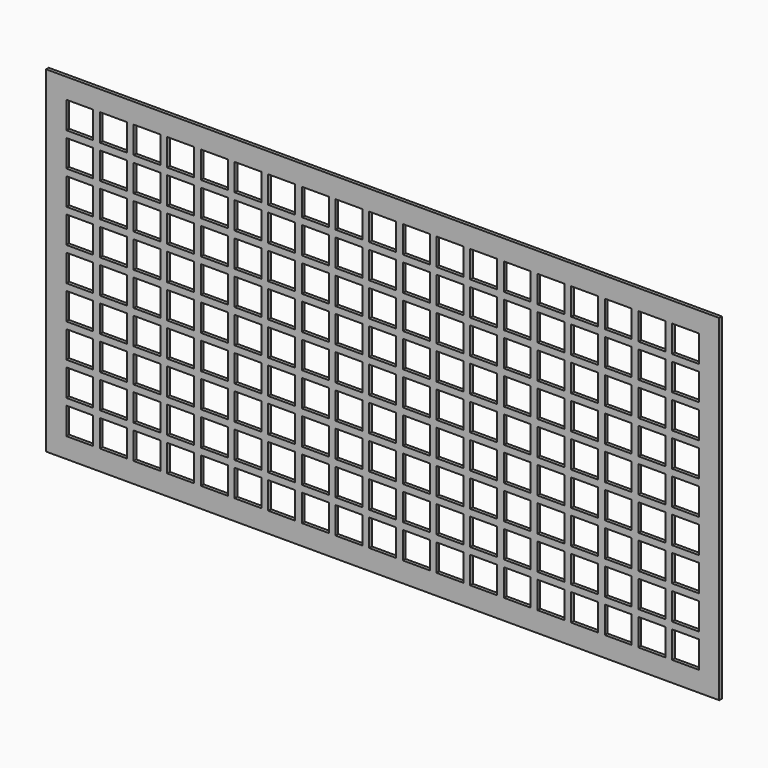
from build123d import *

# Parameters (mm, degrees)
F0_W     = 200
F0_H     = 100
F1_DEPTH = 1
F2_W     = 8
F2_H     = 8
F3_DEPTH = 25


with BuildPart() as f1:
    # F0 (on Front) → F1 (new body)
    with BuildSketch(Plane.XZ):
        with Locations((100, 50)):
            Rectangle(F0_W, F0_H)
    extrude(amount=F1_DEPTH)

    # F2 (on face) → F3 (cut)
    with BuildSketch(Plane.XZ.offset(1)):
        with Locations((10, 90)):
            Rectangle(F2_W, F2_H)
        with Locations((60, 70)):
            Rectangle(F2_W, F2_H)
        with Locations((40, 50)):
            Rectangle(F2_W, F2_H)
        with Locations((130, 60)):
            Rectangle(F2_W, F2_H)
        with Locations((110, 40)):
            Rectangle(F2_W, F2_H)
        with Locations((90, 20)):
            Rectangle(F2_W, F2_H)
        with Locations((80, 90)):
            Rectangle(F2_W, F2_H)
        with Locations((180, 30)):
            Rectangle(F2_W, F2_H)
        with Locations((160, 10)):
            Rectangle(F2_W, F2_H)
        with Locations((150, 80)):
            Rectangle(F2_W, F2_H)
        with Locations((40, 70)):
            Rectangle(F2_W, F2_H)
        with Locations((110, 60)):
            Rectangle(F2_W, F2_H)
        with Locations((90, 40)):
            Rectangle(F2_W, F2_H)
        with Locations((70, 20)):
            Rectangle(F2_W, F2_H)
        with Locations((60, 90)):
            Rectangle(F2_W, F2_H)
        with Locations((180, 50)):
            Rectangle(F2_W, F2_H)
        with Locations((160, 30)):
            Rectangle(F2_W, F2_H)
        with Locations((140, 10)):
            Rectangle(F2_W, F2_H)
        with Locations((130, 80)):
            Rectangle(F2_W, F2_H)
        with Locations((40, 60)):
            Rectangle(F2_W, F2_H)
        with Locations((110, 50)):
            Rectangle(F2_W, F2_H)
        with Locations((90, 30)):
            Rectangle(F2_W, F2_H)
        with Locations((70, 10)):
            Rectangle(F2_W, F2_H)
        with Locations((60, 80)):
            Rectangle(F2_W, F2_H)
        with Locations((180, 40)):
            Rectangle(F2_W, F2_H)
        with Locations((160, 20)):
            Rectangle(F2_W, F2_H)
        with Locations((150, 90)):
            Rectangle(F2_W, F2_H)
        with Locations((130, 70)):
            Rectangle(F2_W, F2_H)
        with Locations((40, 40)):
            Rectangle(F2_W, F2_H)
        with Locations((20, 20)):
            Rectangle(F2_W, F2_H)
        with Locations((110, 30)):
            Rectangle(F2_W, F2_H)
        with Locations((90, 10)):
            Rectangle(F2_W, F2_H)
        with Locations((80, 80)):
            Rectangle(F2_W, F2_H)
        with Locations((60, 60)):
            Rectangle(F2_W, F2_H)
        with Locations((180, 20)):
            Rectangle(F2_W, F2_H)
        with Locations((170, 90)):
            Rectangle(F2_W, F2_H)
        with Locations((150, 70)):
            Rectangle(F2_W, F2_H)
        with Locations((130, 50)):
            Rectangle(F2_W, F2_H)
        with Locations((40, 30)):
            Rectangle(F2_W, F2_H)
        with Locations((20, 10)):
            Rectangle(F2_W, F2_H)
        with Locations((110, 20)):
            Rectangle(F2_W, F2_H)
        with Locations((100, 90)):
            Rectangle(F2_W, F2_H)
        with Locations((80, 70)):
            Rectangle(F2_W, F2_H)
        with Locations((60, 50)):
            Rectangle(F2_W, F2_H)
        with Locations((180, 10)):
            Rectangle(F2_W, F2_H)
        with Locations((170, 80)):
            Rectangle(F2_W, F2_H)
        with Locations((150, 60)):
            Rectangle(F2_W, F2_H)
        with Locations((130, 40)):
            Rectangle(F2_W, F2_H)
        with Locations((40, 20)):
            Rectangle(F2_W, F2_H)
        with Locations((30, 90)):
            Rectangle(F2_W, F2_H)
        with Locations((110, 10)):
            Rectangle(F2_W, F2_H)
        with Locations((100, 80)):
            Rectangle(F2_W, F2_H)
        with Locations((80, 60)):
            Rectangle(F2_W, F2_H)
        with Locations((60, 40)):
            Rectangle(F2_W, F2_H)
        with Locations((190, 90)):
            Rectangle(F2_W, F2_H)
        with Locations((170, 70)):
            Rectangle(F2_W, F2_H)
        with Locations((150, 50)):
            Rectangle(F2_W, F2_H)
        with Locations((130, 30)):
            Rectangle(F2_W, F2_H)
        with Locations((40, 10)):
            Rectangle(F2_W, F2_H)
        with Locations((30, 80)):
            Rectangle(F2_W, F2_H)
        with Locations((120, 90)):
            Rectangle(F2_W, F2_H)
        with Locations((100, 70)):
            Rectangle(F2_W, F2_H)
        with Locations((80, 50)):
            Rectangle(F2_W, F2_H)
        with Locations((60, 30)):
            Rectangle(F2_W, F2_H)
        with Locations((190, 80)):
            Rectangle(F2_W, F2_H)
        with Locations((170, 60)):
            Rectangle(F2_W, F2_H)
        with Locations((150, 40)):
            Rectangle(F2_W, F2_H)
        with Locations((130, 20)):
            Rectangle(F2_W, F2_H)
        with Locations((50, 90)):
            Rectangle(F2_W, F2_H)
        with Locations((30, 70)):
            Rectangle(F2_W, F2_H)
        with Locations((120, 80)):
            Rectangle(F2_W, F2_H)
        with Locations((100, 60)):
            Rectangle(F2_W, F2_H)
        with Locations((80, 40)):
            Rectangle(F2_W, F2_H)
        with Locations((60, 20)):
            Rectangle(F2_W, F2_H)
        with Locations((190, 70)):
            Rectangle(F2_W, F2_H)
        with Locations((170, 50)):
            Rectangle(F2_W, F2_H)
        with Locations((150, 30)):
            Rectangle(F2_W, F2_H)
        with Locations((130, 10)):
            Rectangle(F2_W, F2_H)
        with Locations((50, 80)):
            Rectangle(F2_W, F2_H)
        with Locations((30, 60)):
            Rectangle(F2_W, F2_H)
        with Locations((120, 70)):
            Rectangle(F2_W, F2_H)
        with Locations((100, 50)):
            Rectangle(F2_W, F2_H)
        with Locations((80, 30)):
            Rectangle(F2_W, F2_H)
        with Locations((60, 10)):
            Rectangle(F2_W, F2_H)
        with Locations((190, 60)):
            Rectangle(F2_W, F2_H)
        with Locations((170, 40)):
            Rectangle(F2_W, F2_H)
        with Locations((150, 20)):
            Rectangle(F2_W, F2_H)
        with Locations((140, 90)):
            Rectangle(F2_W, F2_H)
        with Locations((80, 20)):
            Rectangle(F2_W, F2_H)
        with Locations((70, 90)):
            Rectangle(F2_W, F2_H)
        with Locations((50, 70)):
            Rectangle(F2_W, F2_H)
        with Locations((30, 50)):
            Rectangle(F2_W, F2_H)
        with Locations((150, 10)):
            Rectangle(F2_W, F2_H)
        with Locations((140, 80)):
            Rectangle(F2_W, F2_H)
        with Locations((120, 60)):
            Rectangle(F2_W, F2_H)
        with Locations((100, 40)):
            Rectangle(F2_W, F2_H)
        with Locations((190, 50)):
            Rectangle(F2_W, F2_H)
        with Locations((170, 30)):
            Rectangle(F2_W, F2_H)
        with Locations((160, 90)):
            Rectangle(F2_W, F2_H)
        with Locations((140, 70)):
            Rectangle(F2_W, F2_H)
        with Locations((120, 50)):
            Rectangle(F2_W, F2_H)
        with Locations((100, 30)):
            Rectangle(F2_W, F2_H)
        with Locations((190, 40)):
            Rectangle(F2_W, F2_H)
        with Locations((170, 20)):
            Rectangle(F2_W, F2_H)
        with Locations((80, 10)):
            Rectangle(F2_W, F2_H)
        with Locations((70, 80)):
            Rectangle(F2_W, F2_H)
        with Locations((50, 60)):
            Rectangle(F2_W, F2_H)
        with Locations((30, 40)):
            Rectangle(F2_W, F2_H)
        with Locations((190, 30)):
            Rectangle(F2_W, F2_H)
        with Locations((170, 10)):
            Rectangle(F2_W, F2_H)
        with Locations((90, 90)):
            Rectangle(F2_W, F2_H)
        with Locations((70, 70)):
            Rectangle(F2_W, F2_H)
        with Locations((50, 50)):
            Rectangle(F2_W, F2_H)
        with Locations((30, 30)):
            Rectangle(F2_W, F2_H)
        with Locations((160, 80)):
            Rectangle(F2_W, F2_H)
        with Locations((140, 60)):
            Rectangle(F2_W, F2_H)
        with Locations((120, 40)):
            Rectangle(F2_W, F2_H)
        with Locations((100, 20)):
            Rectangle(F2_W, F2_H)
        with Locations((90, 80)):
            Rectangle(F2_W, F2_H)
        with Locations((70, 60)):
            Rectangle(F2_W, F2_H)
        with Locations((50, 40)):
            Rectangle(F2_W, F2_H)
        with Locations((30, 20)):
            Rectangle(F2_W, F2_H)
        with Locations((160, 70)):
            Rectangle(F2_W, F2_H)
        with Locations((140, 50)):
            Rectangle(F2_W, F2_H)
        with Locations((120, 30)):
            Rectangle(F2_W, F2_H)
        with Locations((100, 10)):
            Rectangle(F2_W, F2_H)
        with Locations((190, 20)):
            Rectangle(F2_W, F2_H)
        with Locations((180, 90)):
            Rectangle(F2_W, F2_H)
        with Locations((90, 70)):
            Rectangle(F2_W, F2_H)
        with Locations((70, 50)):
            Rectangle(F2_W, F2_H)
        with Locations((50, 30)):
            Rectangle(F2_W, F2_H)
        with Locations((30, 10)):
            Rectangle(F2_W, F2_H)
        with Locations((160, 60)):
            Rectangle(F2_W, F2_H)
        with Locations((140, 40)):
            Rectangle(F2_W, F2_H)
        with Locations((120, 20)):
            Rectangle(F2_W, F2_H)
        with Locations((110, 90)):
            Rectangle(F2_W, F2_H)
        with Locations((190, 10)):
            Rectangle(F2_W, F2_H)
        with Locations((180, 80)):
            Rectangle(F2_W, F2_H)
        with Locations((90, 60)):
            Rectangle(F2_W, F2_H)
        with Locations((70, 40)):
            Rectangle(F2_W, F2_H)
        with Locations((50, 20)):
            Rectangle(F2_W, F2_H)
        with Locations((40, 90)):
            Rectangle(F2_W, F2_H)
        with Locations((160, 50)):
            Rectangle(F2_W, F2_H)
        with Locations((140, 30)):
            Rectangle(F2_W, F2_H)
        with Locations((120, 10)):
            Rectangle(F2_W, F2_H)
        with Locations((110, 80)):
            Rectangle(F2_W, F2_H)
        with Locations((180, 70)):
            Rectangle(F2_W, F2_H)
        with Locations((90, 50)):
            Rectangle(F2_W, F2_H)
        with Locations((70, 30)):
            Rectangle(F2_W, F2_H)
        with Locations((50, 10)):
            Rectangle(F2_W, F2_H)
        with Locations((40, 80)):
            Rectangle(F2_W, F2_H)
        with Locations((160, 40)):
            Rectangle(F2_W, F2_H)
        with Locations((140, 20)):
            Rectangle(F2_W, F2_H)
        with Locations((130, 90)):
            Rectangle(F2_W, F2_H)
        with Locations((110, 70)):
            Rectangle(F2_W, F2_H)
        with Locations((180, 60)):
            Rectangle(F2_W, F2_H)
        with Locations((20, 30)):
            Rectangle(F2_W, F2_H)
        with Locations((20, 50)):
            Rectangle(F2_W, F2_H)
        with Locations((20, 40)):
            Rectangle(F2_W, F2_H)
        with Locations((10, 80)):
            Rectangle(F2_W, F2_H)
        with Locations((10, 70)):
            Rectangle(F2_W, F2_H)
        with Locations((10, 60)):
            Rectangle(F2_W, F2_H)
        with Locations((10, 50)):
            Rectangle(F2_W, F2_H)
        with Locations((10, 40)):
            Rectangle(F2_W, F2_H)
        with Locations((10, 30)):
            Rectangle(F2_W, F2_H)
        with Locations((10, 20)):
            Rectangle(F2_W, F2_H)
        with Locations((10, 10)):
            Rectangle(F2_W, F2_H)
        with Locations((20, 90)):
            Rectangle(F2_W, F2_H)
        with Locations((20, 80)):
            Rectangle(F2_W, F2_H)
        with Locations((20, 70)):
            Rectangle(F2_W, F2_H)
        with Locations((20, 60)):
            Rectangle(F2_W, F2_H)
    extrude(amount=-F3_DEPTH, mode=Mode.SUBTRACT)


solid = f1.part
